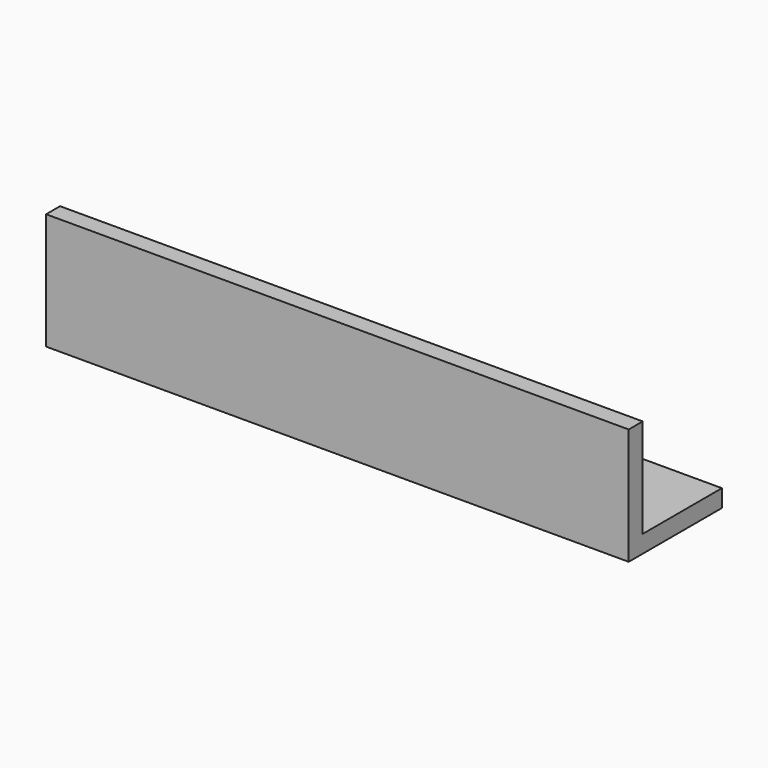
from build123d import *

# Parameters (mm, degrees)
PAD_DEPTH = 100


with BuildPart() as part:
    # Sketch → Pad (new body)
    with BuildSketch(Plane.YZ):
        Polygon((0, 0), (20, 0), (20, 3), (3, 3), (3, 20), (0, 20), align=None)
    extrude(amount=PAD_DEPTH)


solid = part.part
